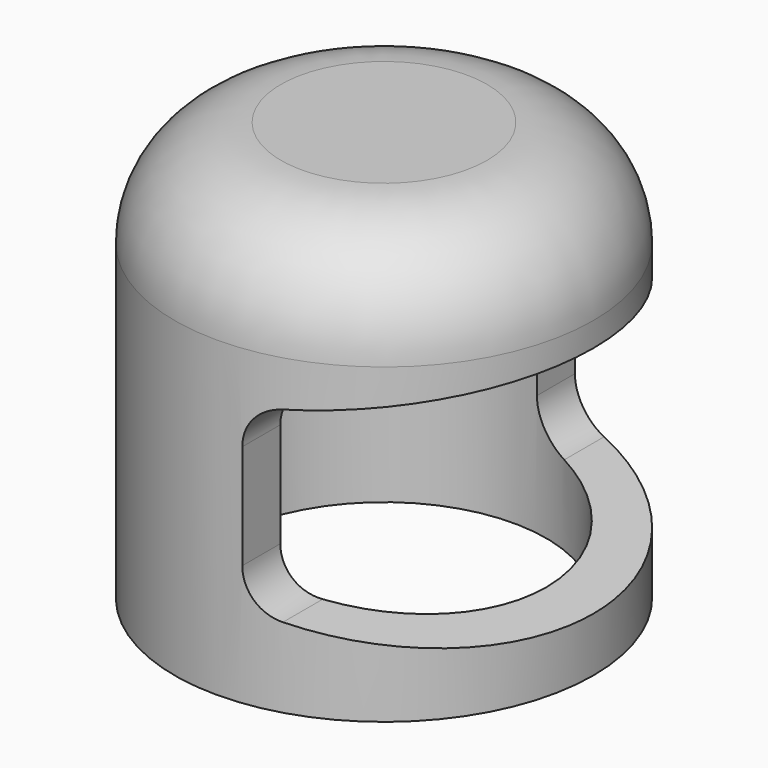
from build123d import *

# Parameters (mm, degrees)
F0_R     = 10
F1_DEPTH = 20
F3_R     = 5.08
F4_DEPTH = 25
F5_DEPTH = 25.4
F6_R     = 7.75
F7_DEPTH = 16
F8_R     = 2.5
F9_DEPTH = 3


with BuildPart() as f1:
    # F0 (on Top) → F1 (new body)
    with BuildSketch(Plane.XY):
        Circle(F0_R)
    extrude(amount=F1_DEPTH)

    # F3
    f3_edges = [f1.edges().sort_by_distance(p)[0] for p in [
        (-10, 0, 20),
    ]]
    fillet(f3_edges, radius=F3_R)

    # F2 (on Front) → F4 (cut)
    with BuildSketch(Plane.XZ):
        with BuildLine():
            Line((13.2011724636, 2.0541311242), (10.8197718092, 13.8740318547))
            Line((10.8197718092, 13.8740318547), (2.8975781604, 12.7609964594))
            ThreePointArc((2.8975781604, 12.7609964594), (1.666446785, 12.0925993918), (1.1758370092, 10.7804480472))
            Line((1.1758370092, 10.7804480472), (1.1758370092, 5.7804480472))
            ThreePointArc((1.1758370092, 5.7804480472), (1.6481085109, 4.4896941453), (2.8418826446, 3.8085265269))
            Line((2.8418826446, 3.8085265269), (13.2011724636, 2.0541311242))
        make_face()
    extrude(amount=-F4_DEPTH, mode=Mode.SUBTRACT)

    # F5 (cut): a face of the model
    f5_faces = [f1.faces().sort_by_distance(p)[0] for p in [
        (5.8523701774, 0, 8.2355862053),
    ]]
    extrude(f5_faces, amount=-F5_DEPTH, mode=Mode.SUBTRACT)

    # F6 (on face) → F7 (cut)
    with BuildSketch(Plane(origin=(0, 0, 0), x_dir=(1, 0, 0), z_dir=(0, 0, -1))):
        Circle(F6_R)
    extrude(amount=-F7_DEPTH, mode=Mode.SUBTRACT)

    # F8 (on face) → F9 (cut)
    with BuildSketch(Plane(origin=(0, 0, 16), x_dir=(1, 0, 0), z_dir=(0, 0, -1))):
        Circle(F8_R)
    extrude(amount=-F9_DEPTH, mode=Mode.SUBTRACT)


solid = f1.part
